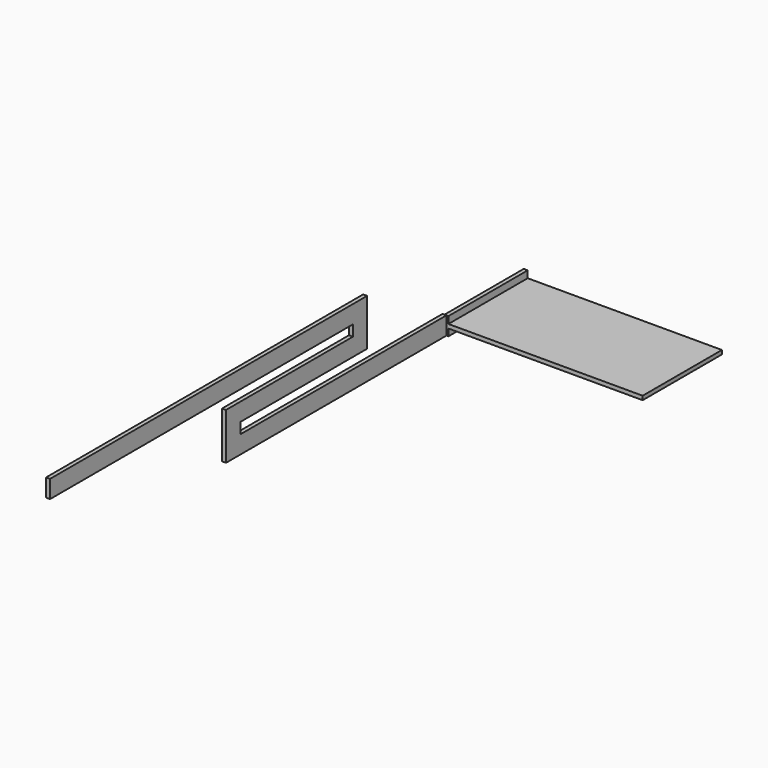
from build123d import *

# Parameters (mm, degrees)
PAD015_DEPTH  = 0.1
SKETCH_W      = 0.9
SKETCH_H      = 10
PAD_DEPTH     = 5
SKETCH024_W   = 0.693804
SKETCH024_H   = 10.010304
SKETCH024_W_2 = 0.997342
SKETCH024_H_2 = 10.046701
POCKET_DEPTH  = 5


with BuildPart() as part:
    # Sketch023 → Pad015 (new body, symmetric)
    with BuildSketch(Plane.YZ):
        Polygon((-26, 1.9), (-26, 1), (-6.9, 1), (-6.9, 0.45), (-14.9, 0.45), (-14.9, -1.9), (-1, -1.9), (-1, -1), (-14, -1), (-14, -0.45), (-6, -0.45), (-6, 1.9), align=None)
    extrude(amount=PAD015_DEPTH, both=True)

    # Sketch (on Face7 of Pad015) → Pad (join)
    with BuildSketch(Plane.ZX.offset(-1)):
        with Locations((-1.45, 5)):
            Rectangle(SKETCH_W, SKETCH_H)
    extrude(amount=PAD_DEPTH)

    # Sketch024 (on Face20 of Pad) → Pocket (cut)
    with BuildSketch(Plane.ZX.offset(4)):
        with Locations((-1.003098, 5.205152)):
            Rectangle(SKETCH024_W, SKETCH024_H)
        with Locations((-2.048671, 5.22335)):
            Rectangle(SKETCH024_W_2, SKETCH024_H_2)
    extrude(amount=-POCKET_DEPTH, mode=Mode.SUBTRACT)


solid = part.part
